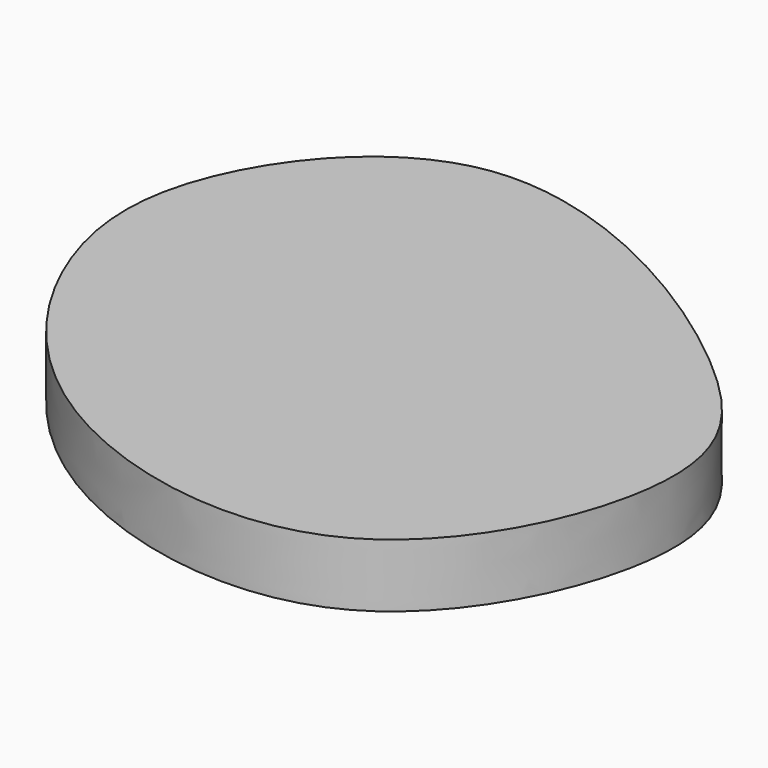
from build123d import *

# Parameters (mm, degrees)
F1_DEPTH = 25.4


with BuildPart() as f1:
    # F0 (on Top) → F1 (new body)
    with BuildSketch(Plane.XY):
        with BuildLine():
            add(Edge.make_bspline(
                [(-90.4525667429, 0), (-99.1821290579, 23.7046525235), (-101.3363228149, 71.3908779532), (-25.3780311482, 161.1083518765), (120.8787758115, 71.5109702201), (164.8235417319, 4.8419719331), (108.8650587287, -122.4260241424), (-33.2975280196, -93.8822613163), (-79.721697517, -29.1390927856), (-90.4525667429, 0)],
                knots=[0, 0, 0, 0, 0.1184599267, 0.2531290309, 0.4267890201, 0.5507223788, 0.6981863233, 0.8543823922, 1, 1, 1, 1], degree=3))
        make_face()
    extrude(amount=F1_DEPTH)


solid = f1.part
